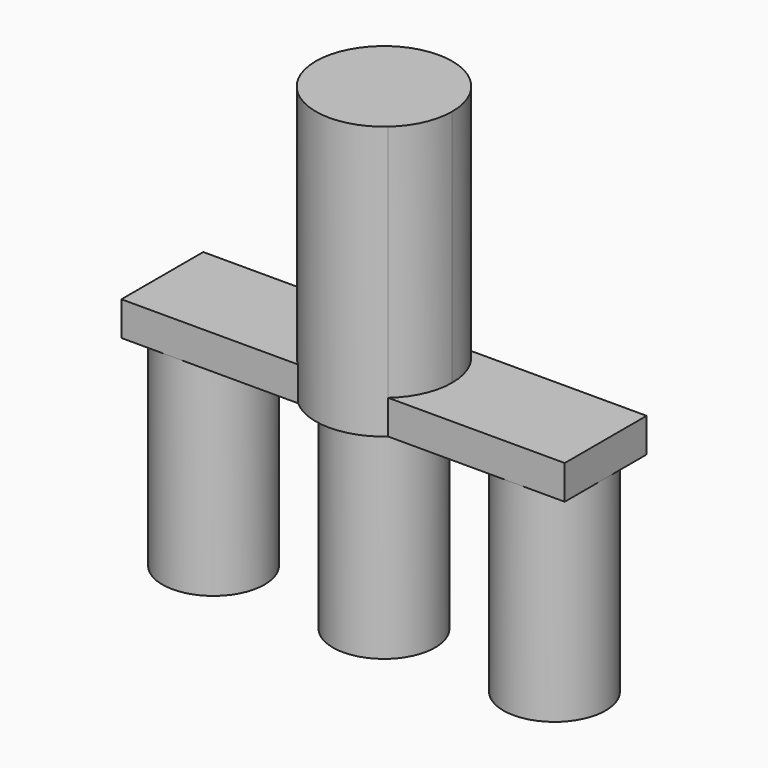
from build123d import *

# Parameters (mm, degrees)
F1_DEPTH = 101.6
F2_DEPTH = 12.7
F4_DEPTH = 76.2


with BuildPart() as f1:
    # F0 (on Top) → F1 (new body)
    with BuildSketch(Plane.XY):
        with BuildLine():
            ThreePointArc((-16.8005208253, -19.05), (0, -25.4), (16.8005208253, -19.05))
            Line((16.8005208253, -19.05), (-16.8005208253, -19.05))
        make_face()
        with BuildLine():
            ThreePointArc((25.4, 0), (23.1505208253, 10.4505208253), (16.8005208253, 19.05))
            Line((16.8005208253, 19.05), (-16.8005208253, 19.05))
            ThreePointArc((-16.8005208253, 19.05), (-25.4, 0), (-16.8005208253, -19.05))
            Line((-16.8005208253, -19.05), (16.8005208253, -19.05))
            ThreePointArc((16.8005208253, -19.05), (23.1505208253, -10.4505208253), (25.4, 0))
        make_face()
        with BuildLine():
            Line((-16.8005208253, 19.05), (16.8005208253, 19.05))
            ThreePointArc((16.8005208253, 19.05), (0, 25.4), (-16.8005208253, 19.05))
        make_face()
    extrude(amount=F1_DEPTH)

    # F0 (on Top) → F2 (join)
    with BuildSketch(Plane.XY):
        with BuildLine():
            Line((82.55, -19.05), (82.55, 19.05))
            Line((82.55, 19.05), (16.8005208253, 19.05))
            ThreePointArc((16.8005208253, 19.05), (23.1505208253, 10.4505208253), (25.4, 0))
            ThreePointArc((25.4, 0), (23.1505208253, -10.4505208253), (16.8005208253, -19.05))
            Line((16.8005208253, -19.05), (82.55, -19.05))
        make_face()
        with BuildLine():
            ThreePointArc((25.4, 0), (23.1505208253, 10.4505208253), (16.8005208253, 19.05))
            Line((16.8005208253, 19.05), (-16.8005208253, 19.05))
            ThreePointArc((-16.8005208253, 19.05), (-25.4, 0), (-16.8005208253, -19.05))
            Line((-16.8005208253, -19.05), (16.8005208253, -19.05))
            ThreePointArc((16.8005208253, -19.05), (23.1505208253, -10.4505208253), (25.4, 0))
        make_face()
        with BuildLine():
            Line((-16.8005208253, 19.05), (16.8005208253, 19.05))
            ThreePointArc((16.8005208253, 19.05), (0, 25.4), (-16.8005208253, 19.05))
        make_face()
        with BuildLine():
            ThreePointArc((-16.8005208253, -19.05), (-25.4, 0), (-16.8005208253, 19.05))
            Line((-16.8005208253, 19.05), (-82.55, 19.05))
            Line((-82.55, 19.05), (-82.55, -19.05))
            Line((-82.55, -19.05), (-16.8005208253, -19.05))
        make_face()
        with BuildLine():
            ThreePointArc((-16.8005208253, -19.05), (0, -25.4), (16.8005208253, -19.05))
            Line((16.8005208253, -19.05), (-16.8005208253, -19.05))
        make_face()
    extrude(amount=F2_DEPTH)

    # F3 (on Top) → F4 (join)
    with BuildSketch(Plane.XY):
        with BuildLine():
            Line((0, 0), (19.05, 0))
            ThreePointArc((19.05, 0), (0, 19.05), (-19.05, 0))
            Line((-19.05, 0), (0, 0))
        make_face()
        with BuildLine():
            ThreePointArc((-82.55, 0), (-63.5, -19.05), (-44.45, 0))
            Line((-44.45, 0), (-63.5, 0))
            Line((-63.5, 0), (-82.55, 0))
        make_face()
        with BuildLine():
            Line((-63.5, 0), (-44.45, 0))
            ThreePointArc((-44.45, 0), (-63.5, 19.05), (-82.55, 0))
            Line((-82.55, 0), (-63.5, 0))
        make_face()
        with BuildLine():
            ThreePointArc((-19.05, 0), (0, -19.05), (19.05, 0))
            Line((19.05, 0), (0, 0))
            Line((0, 0), (-19.05, 0))
        make_face()
        with BuildLine():
            ThreePointArc((82.55, 0), (63.5, 19.05), (44.45, 0))
            Line((44.45, 0), (63.5, 0))
            Line((63.5, 0), (82.55, 0))
        make_face()
        with BuildLine():
            Line((63.5, 0), (44.45, 0))
            ThreePointArc((44.45, 0), (63.5, -19.05), (82.55, 0))
            Line((82.55, 0), (63.5, 0))
        make_face()
    extrude(amount=-F4_DEPTH)


solid = f1.part
